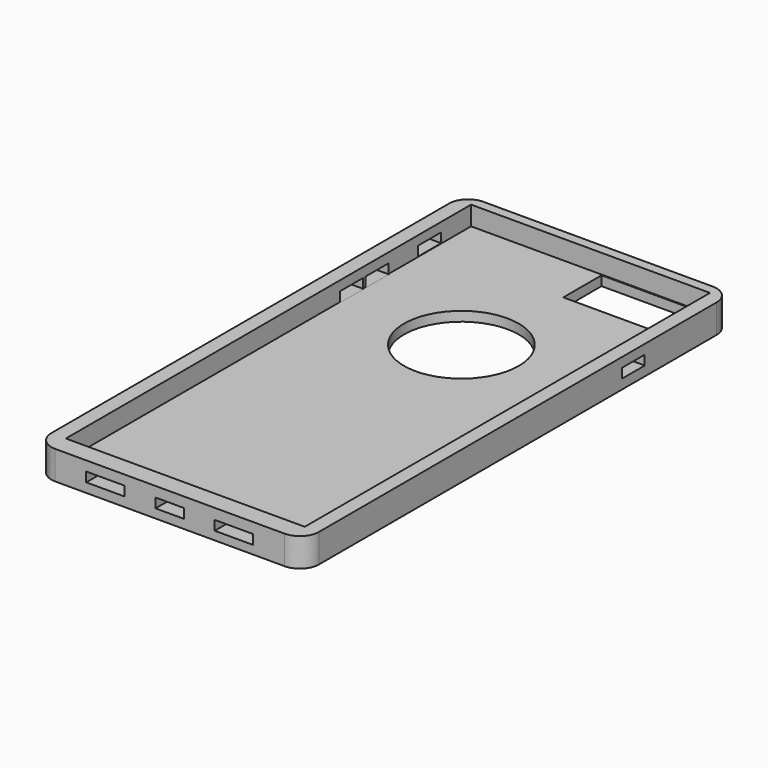
from build123d import *

# Parameters (mm, degrees)
F0_W      = 71.12
F0_H      = 142.24
F1_DEPTH  = 3.81
F2_W      = 63.5
F2_H      = 134.62
F3_DEPTH  = 5.08
F4_W      = 10.16
F4_H      = 2.54
F5_DEPTH  = 5.334
F6_W      = 7.62
F6_H      = 2.54
F7_DEPTH  = 5.334
F8_W      = 7.62
F8_H      = 2.54
F9_DEPTH  = 4.572
F10_W     = 7.62
F10_H     = 2.54
F11_DEPTH = 4.064
F12_W     = 7.62
F12_H     = 2.54
F13_DEPTH = 4.064
F14_W     = 27.94
F14_H     = 12.7
F15_DEPTH = 4.064
F16_R     = 15.24
F17_DEPTH = 4.064
F18_R     = 5.08


with BuildPart() as f1:
    # F0 (on Top) → F1 (new body, symmetric)
    with BuildSketch(Plane.XY):
        with Locations((0, 13.4339)):
            Rectangle(F0_W, F0_H)
    extrude(amount=F1_DEPTH, both=True)

    # F2 (on face) → F3 (cut)
    with BuildSketch(Plane.XY.offset(3.81)):
        with Locations((0.065597, 14.650529)):
            Rectangle(F2_W, F2_H)
    extrude(amount=-F3_DEPTH, mode=Mode.SUBTRACT)

    # F4 (on face) → F5 (cut)
    with BuildSketch(Plane.XZ.offset(57.6861)):
        with Locations((-17.157398, -0.062746)):
            Rectangle(F4_W, F4_H)
        with Locations((16.987846, -0.278907)):
            Rectangle(F4_W, F4_H)
    extrude(amount=-F5_DEPTH, mode=Mode.SUBTRACT)

    # F6 (on face) → F7 (cut)
    with BuildSketch(Plane.XZ.offset(57.6861)):
        with Locations((-0.01244, -0.158032)):
            Rectangle(F6_W, F6_H)
    extrude(amount=-F7_DEPTH, mode=Mode.SUBTRACT)

    # F8 (on face) → F9 (cut)
    with BuildSketch(Plane.YZ.offset(35.56)):
        with Locations((51.784515, 0.018215)):
            Rectangle(F8_W, F8_H)
    extrude(amount=-F9_DEPTH, mode=Mode.SUBTRACT)

    # F10 (on face) → F11 (cut)
    with BuildSketch(Plane(origin=(-35.56, 0, 0), x_dir=(0, -1, 0), z_dir=(-1, 0, 0))):
        with Locations((-68.214123, 0.094177)):
            Rectangle(F10_W, F10_H)
    extrude(amount=-F11_DEPTH, mode=Mode.SUBTRACT)

    # F12 (on face) → F13 (cut)
    with BuildSketch(Plane(origin=(-35.56, 0, 0), x_dir=(0, -1, 0), z_dir=(-1, 0, 0))):
        with Locations((-50.678022, -0.031994)):
            Rectangle(F12_W, F12_H)
        with Locations((-42.283158, -0.031994)):
            Rectangle(F12_W, F12_H)
    extrude(amount=-F13_DEPTH, mode=Mode.SUBTRACT)

    # F14 (on face) → F15 (cut)
    with BuildSketch(Plane(origin=(0, 0, -3.81), x_dir=(1, 0, 0), z_dir=(0, 0, -1))):
        with Locations((17.181641, -75.335267)):
            Rectangle(F14_W, F14_H)
    extrude(amount=-F15_DEPTH, mode=Mode.SUBTRACT)

    # F16 (on face) → F17 (cut)
    with BuildSketch(Plane(origin=(0, 0, -3.81), x_dir=(1, 0, 0), z_dir=(0, 0, -1))):
        with Locations((0, -39.147473)):
            Circle(F16_R)
    extrude(amount=-F17_DEPTH, mode=Mode.SUBTRACT)

    # F18
    f18_edges = [f1.edges().sort_by_distance(p)[0] for p in [
        (35.56, -57.6861, 0),
        (-35.56, -57.6861, 0),
        (-35.56, 84.5539, 0),
        (35.56, 84.5539, 0),
    ]]
    fillet(f18_edges, radius=F18_R)


solid = f1.part
